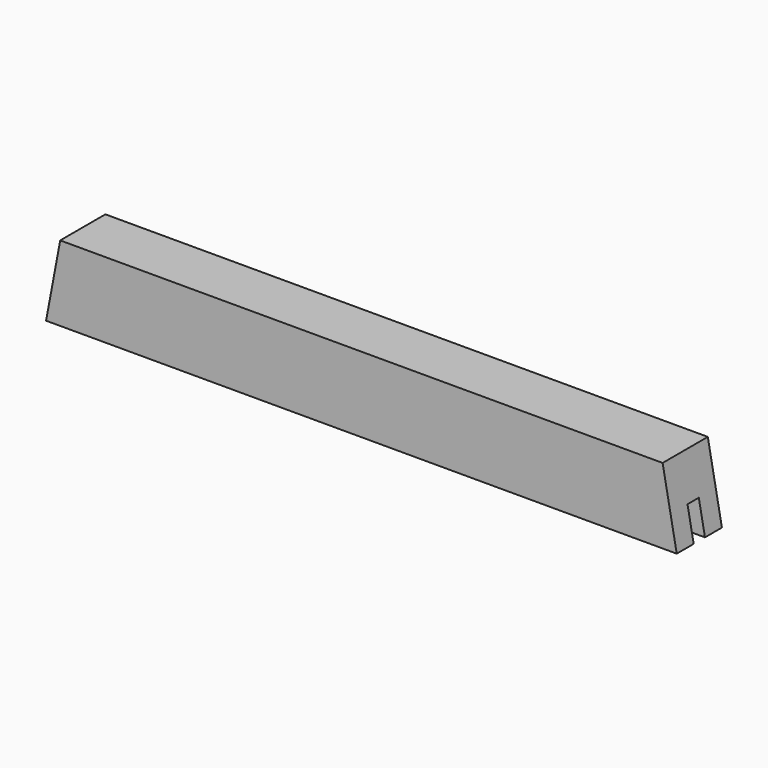
from build123d import *

# Parameters (mm, degrees)
F1_DEPTH = 152.4
F2_W     = 254
F2_H     = 38.1
F3_DEPTH = 88.9


with BuildPart() as f1:
    # F0 (on Front) → F1 (new body)
    with BuildSketch(Plane.XZ):
        Polygon((812.8, 101.6), (-812.8, 101.6), (-850.9, -101.6), (850.9, -101.6), align=None)
    extrude(amount=F1_DEPTH)

    # F2 (on face) → F3 (cut)
    with BuildSketch(Plane(origin=(0, 0, -101.6), x_dir=(1, 0, 0), z_dir=(0, 0, -1))):
        with Locations((-723.9, 73.66)):
            Rectangle(F2_W, F2_H)
        with Locations((723.9, 76.2)):
            Rectangle(F2_W, F2_H)
    extrude(amount=-F3_DEPTH, mode=Mode.SUBTRACT)


solid = f1.part
